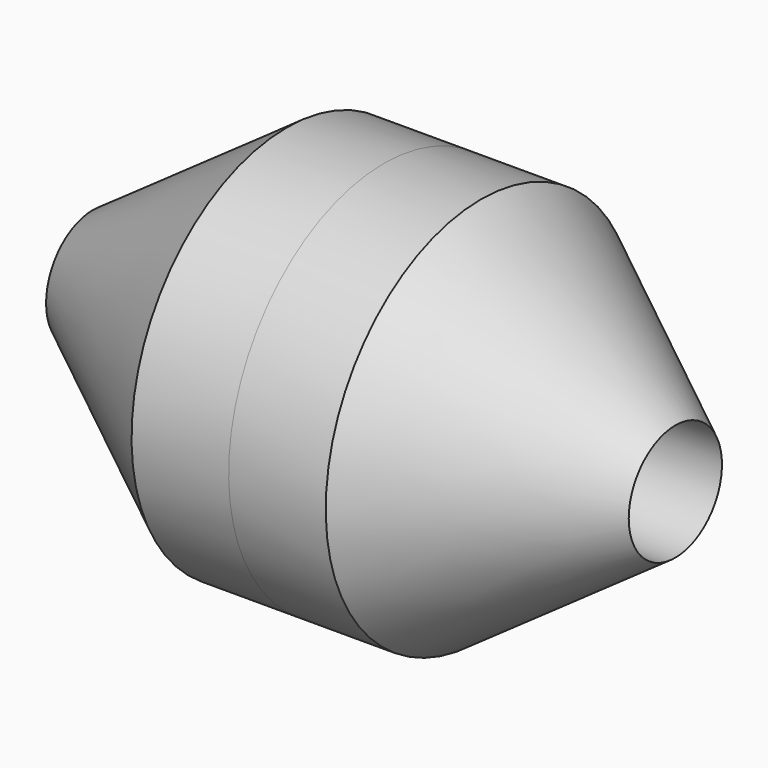
from build123d import *

# Parameters (mm, degrees)
F3_R     = 3
F4_DEPTH = 30.001


with BuildPart() as f1:
    # F0 (on Front) → F1 (revolve)
    with BuildSketch(Plane.XZ):
        Polygon((0, 10), (0, 0), (15, 0), (15, 3), (5, 10), align=None)
    revolve(axis=Axis((7.5, 0, 0), (-1, 0, 0)))

    # F2: F1 across plane


with BuildPart() as f1_1:
    add(f1.part)
    add(f1.part.mirror(Plane.YZ))

    # F3 (on face) → F4 (cut, through all)
    with BuildSketch(Plane(origin=(-15, 0, 0), x_dir=(0, -1, 0), z_dir=(-1, 0, 0))):
        Circle(F3_R)
    extrude(amount=-F4_DEPTH, mode=Mode.SUBTRACT)


solid = f1_1.part
